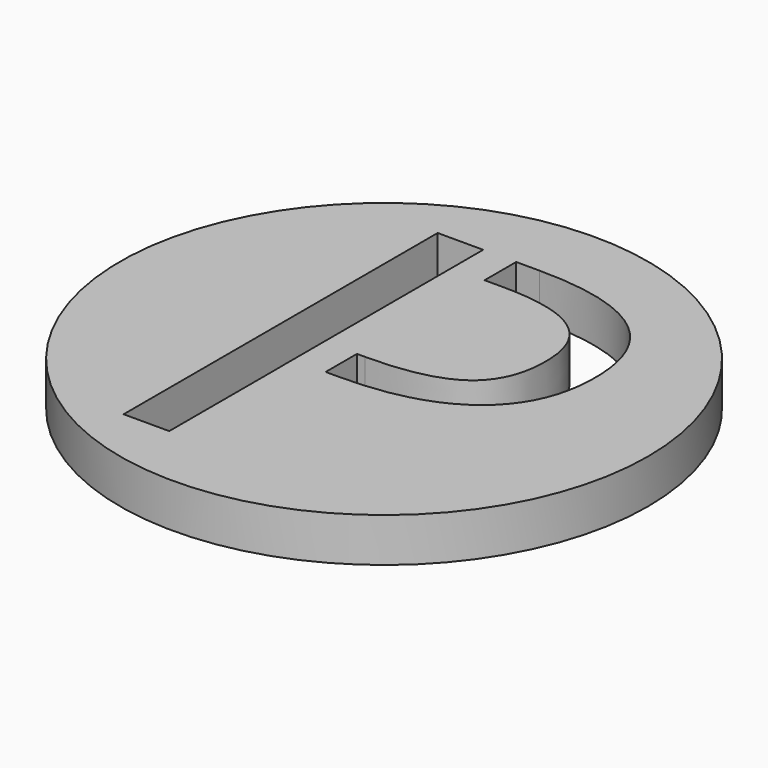
from build123d import *

# Parameters (mm, degrees)
F0_R     = 12
F1_DEPTH = 2
F3_DEPTH = 25


with BuildPart() as f1:
    # F0 (on Top) → F1 (new body)
    with BuildSketch(Plane.XY):
        Circle(F0_R)
    extrude(amount=F1_DEPTH)

    # F2 (on face) → F3 (cut)
    with BuildSketch(Plane.XY.offset(2)):
        Polygon((-2.4922248213, -2.7263574302), (-2.4970963951, -2.7263574302), (-2.4970963951, 8.7525503095), (-4.5664435713, 8.7525503095), (-4.5664435713, -9.0951059405), (-2.4922248213, -9.0951059405), align=None)
        with BuildLine():
            Line((0.0624626787, 8.7525503095), (-0.9970963951, 8.7525503095))
            Line((-0.9970963951, 8.7525503095), (-0.9970963951, 6.9556753095))
            Line((-0.9970963951, 6.9556753095), (-0.1719123213, 6.9556753095))
            add(Edge.make_bspline(
                [(3.4413689287, 6.0904409345), (2.2812126787, 6.9556753095), (-0.1719123213, 6.9556753095)],
                knots=[0, 0, 0, 1, 1, 1], degree=2))
            add(Edge.make_bspline(
                [(4.6015251787, 3.4556753095), (4.6015251787, 5.2252065595), (3.4413689287, 6.0904409345)],
                knots=[0, 0, 0, 1, 1, 1], degree=2))
            add(Edge.make_bspline(
                [(3.3691033037, 0.5963003095), (4.6015251787, 1.4869253095), (4.6015251787, 3.4556753095)],
                knots=[0, 0, 0, 1, 1, 1], degree=2))
            add(Edge.make_bspline(
                [(-0.6211310713, -0.2943246905), (2.1366814287, -0.2943246905), (3.3691033037, 0.5963003095)],
                knots=[0, 0, 0, 1, 1, 1], degree=2))
            Line((-0.6211310713, -0.2943246905), (-0.9970963951, -0.2943246905))
            Line((-0.9970963951, -0.2943246905), (-0.9970963951, -2.0755746905))
            Line((-0.9970963951, -2.0755746905), (-0.3906623213, -2.0755746905))
            add(Edge.make_bspline(
                [(4.9003533037, -0.6165903155), (3.0507439287, -2.0755746905), (-0.3906623213, -2.0755746905)],
                knots=[0, 0, 0, 1, 1, 1], degree=2))
            add(Edge.make_bspline(
                [(6.7499626787, 3.5533315595), (6.7499626787, 0.8423940595), (4.9003533037, -0.6165903155)],
                knots=[0, 0, 0, 1, 1, 1], degree=2))
            add(Edge.make_bspline(
                [(0.0624626787, 8.7525503095), (6.7499626787, 8.7525503095), (6.7499626787, 3.5533315595)],
                knots=[0, 0, 0, 1, 1, 1], degree=2))
        make_face()
    extrude(amount=-F3_DEPTH, mode=Mode.SUBTRACT)


solid = f1.part
